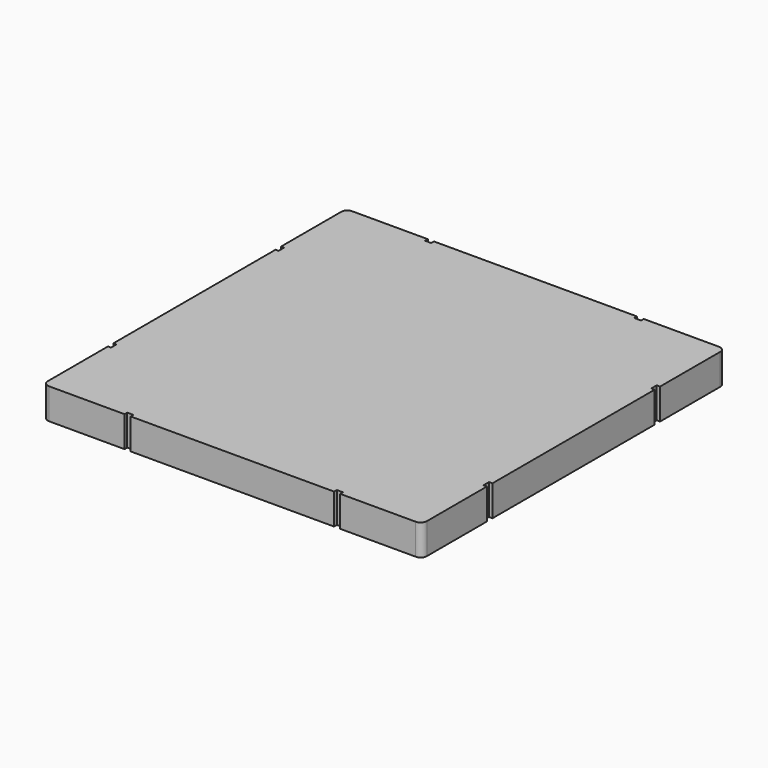
from build123d import *

# Parameters (mm, degrees)
F2_DEPTH = 10
F1_W     = 2
F1_H     = 2.2
F1_W_2   = 2.2
F3_DEPTH = 10


with BuildPart() as f2:
    # F0 (on Top) → F2 (new body)
    with BuildSketch(Plane.XY):
        with BuildLine():
            ThreePointArc((61.5, 59.5), (60.914214, 60.914214), (59.5, 61.5))
            Line((59.5, 61.5), (-59.5, 61.5))
            ThreePointArc((-59.5, 61.5), (-60.914214, 60.914214), (-61.5, 59.5))
            Line((-61.5, 59.5), (-61.5, -59.5))
            ThreePointArc((-61.5, -59.5), (-60.914214, -60.914214), (-59.5, -61.5))
            Line((-59.5, -61.5), (59.5, -61.5))
            ThreePointArc((59.5, -61.5), (60.914214, -60.914214), (61.5, -59.5))
            Line((61.5, -59.5), (61.5, 59.5))
        make_face()
    extrude(amount=F2_DEPTH)

    # F1 (on Top) → F3 (cut)
    with BuildSketch(Plane.XY):
        with Locations((-34, 61.5)):
            Rectangle(F1_W, F1_H)
        with Locations((34, 61.5)):
            Rectangle(F1_W_2, F1_H)
        with Locations((61.5, 34)):
            Rectangle(F1_W_2, F1_H)
        with Locations((61.5, -34)):
            Rectangle(F1_W_2, F1_H)
        with Locations((34, -61.5)):
            Rectangle(F1_W, F1_H)
        with Locations((-34, -61.5)):
            Rectangle(F1_W, F1_H)
        with Locations((-61.5, -34)):
            Rectangle(F1_W, F1_H)
        with Locations((-61.5, 34)):
            Rectangle(F1_W, F1_H)
    extrude(amount=F3_DEPTH, mode=Mode.SUBTRACT)


solid = f2.part
